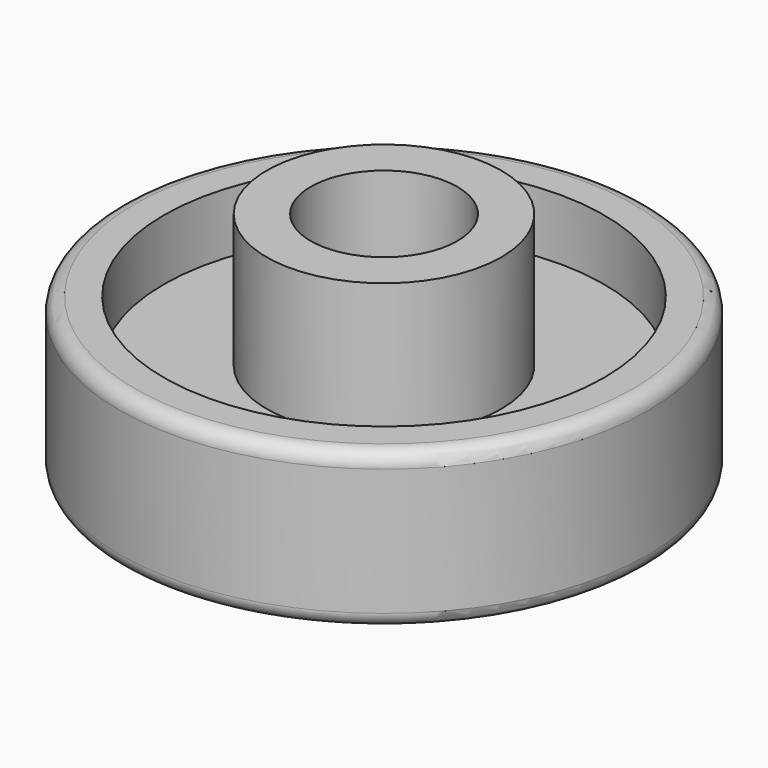
from build123d import *

# Parameters (mm, degrees)
CYLINDER004_R     = 5
CYLINDER004_DEPTH = 25.6
CYLINDER002_R     = 15
CYLINDER002_DEPTH = 2.8
CYLINDER001_R     = 15
CYLINDER001_DEPTH = 4.5
CYLINDER_R        = 18
CYLINDER_DEPTH    = 10.65
CYLINDER003_R     = 8
CYLINDER003_DEPTH = 13.6
FILLET_R          = 1
FILLET001_R       = 1


with BuildPart() as cylinder004:
    # Cylinder004 → Cylinder004 (new body)
    with BuildSketch(Plane.XY.offset(-1)):
        Circle(CYLINDER004_R)
    extrude(amount=CYLINDER004_DEPTH)


with BuildPart() as cylinder002:
    # Cylinder002 → Cylinder002 (new body)
    with BuildSketch(Plane.XY.offset(-0.5)):
        Circle(CYLINDER002_R)
    extrude(amount=CYLINDER002_DEPTH)


with BuildPart() as cylinder001:
    # Cylinder001 → Cylinder001 (new body)
    with BuildSketch(Plane.XY.offset(6.5)):
        Circle(CYLINDER001_R)
    extrude(amount=CYLINDER001_DEPTH)


with BuildPart() as cut001:
    # Cylinder → Cylinder (new body)
    with BuildSketch(Plane.XY):
        Circle(CYLINDER_R)
    extrude(amount=CYLINDER_DEPTH)

    # Cut: cut Cylinder001
    add(cylinder001.part, mode=Mode.SUBTRACT)

    # Cut001: cut Cylinder002
    add(cylinder002.part, mode=Mode.SUBTRACT)


with BuildPart() as body:
    # Cylinder003 → Cylinder003 (new body)
    with BuildSketch(Plane.XY.offset(2)):
        Circle(CYLINDER003_R)
    extrude(amount=CYLINDER003_DEPTH)

    # Fusion: union Cut001
    add(cut001.part)

    # Cut002: cut Cylinder004
    add(cylinder004.part, mode=Mode.SUBTRACT)

    # Fillet
    fillet_edges = [body.edges().sort_by_distance(p)[0] for p in [
        (-18, 0, 10.65),
    ]]
    fillet(fillet_edges, radius=FILLET_R)

    # Fillet001
    fillet001_edges = [body.edges().sort_by_distance(p)[0] for p in [
        (-18, 0, 0),
    ]]
    fillet(fillet001_edges, radius=FILLET001_R)


solid = body.part
